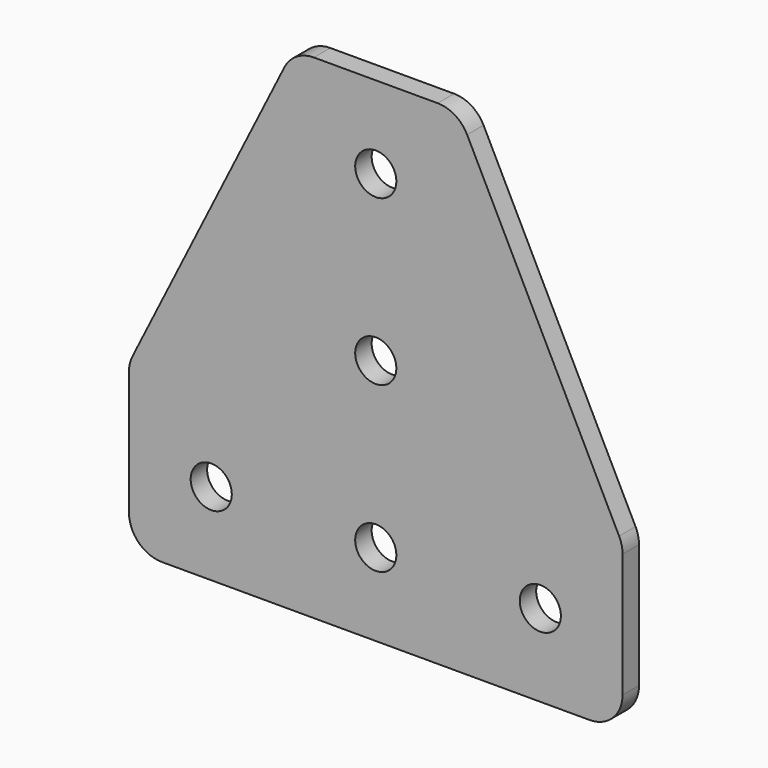
from build123d import *

# Parameters (mm, degrees)
F1_DEPTH = 3.175
F2_R     = 5.08
F4_D     = 6.35


with BuildPart() as f1:
    # F0 (on Front) → F1 (new body)
    with BuildSketch(Plane.XZ):
        Polygon((-38.1, 25.4), (-38.1, 0), (38.1, 0), (38.1, 25.4), (12.7, 76.2), (-12.7, 76.2), align=None)
    extrude(amount=F1_DEPTH)

    # F2
    f2_edges = [f1.edges().sort_by_distance(p)[0] for p in [
        (12.7, -1.5875, 76.2),
        (-12.7, -1.5875, 76.2),
        (38.1, -1.5875, 25.4),
        (38.1, -1.5875, 0),
        (-38.1, -1.5875, 25.4),
        (-38.1, -1.5875, 0),
    ]]
    fillet(f2_edges, radius=F2_R)

    # F4 (through all)
    with Locations(Plane(origin=(0, 0, 0), x_dir=(-1, 0, 0), z_dir=(0, 1, 0))):
        with Locations((-25.4, 12.7), (0, 12.7), (25.4, 12.7), (0, 38.1), (0, 63.5)):
            Hole(F4_D / 2)


solid = f1.part
